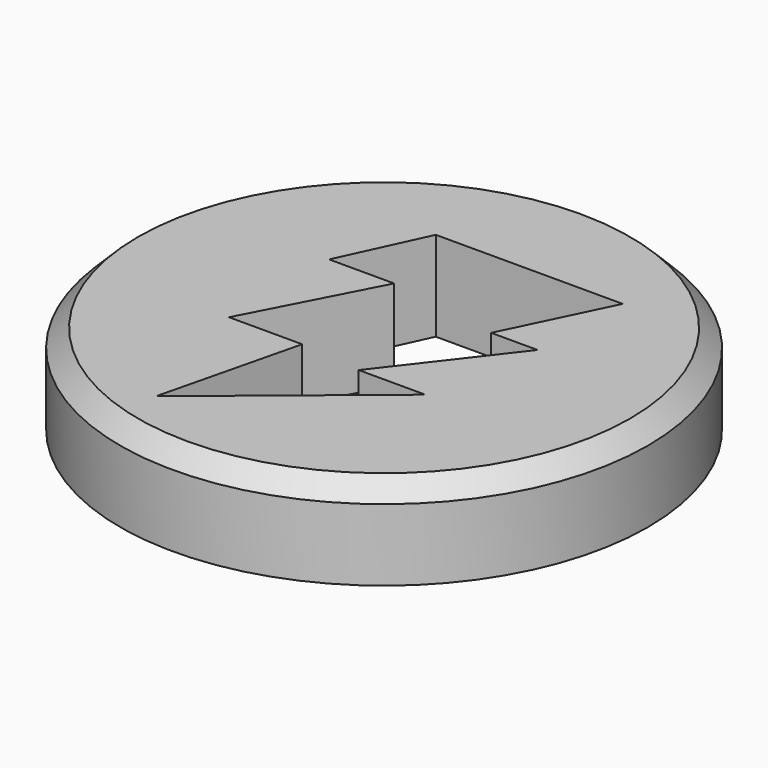
from build123d import *

# Parameters (mm, degrees)
F0_R     = 74.736194
F1_DEPTH = 25.4
F2_SIZE  = 5.08


with BuildPart() as f1:
    # F0 (on Top) → F1 (new body)
    with BuildSketch(Plane.XY):
        with Locations((-20.023532, 0)):
            Circle(F0_R)
        Polygon((-49.93894, 17.944667), (-38.893249, 41.878957), (14.034008, 41.878957), (0, 12.881645), (13.113534, 12.881645), (-11.739265, -19.337591), (7.130454, -19.337591), (-38.893249, -57.080124), (-29.228272, -17.496489), (-49.93894, -17.496489), (-31.529456, 17.944667), align=None, mode=Mode.SUBTRACT)
    extrude(amount=F1_DEPTH)

    # F2
    f2_edges = [f1.edges().sort_by_distance(p)[0] for p in [
        (-94.759726, 0, 25.4),
    ]]
    chamfer(f2_edges, length=F2_SIZE)


solid = f1.part
